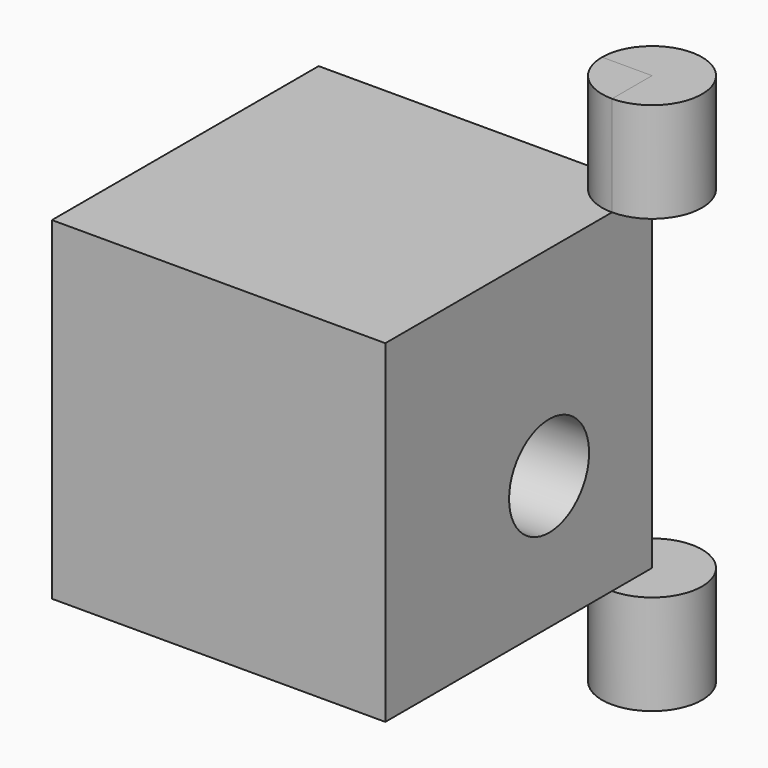
from build123d import *

# Parameters (mm, degrees)
F0_W     = 100
F0_H     = 100
F1_DEPTH = 100
F3_DEPTH = 30
F4_DEPTH = 30
F6_DEPTH = 30
F8_D     = 30


with BuildPart() as f1:
    # F0 (on Front) → F1 (new body)
    with BuildSketch(Plane.XZ):
        with Locations((-50, 50)):
            Rectangle(F0_W, F0_H)
    extrude(amount=F1_DEPTH)

    # F5 (on face) → F6 (join)
    with BuildSketch(Plane(origin=(0, 0, 0), x_dir=(1, 0, 0), z_dir=(0, 0, -1))):
        with BuildLine():
            ThreePointArc((-15, 0), (0, -15), (15, 0))
            ThreePointArc((15, 0), (10.6066017178, 10.6066017178), (0, 15))
            Line((0, 15), (0, 0))
            Line((0, 0), (-15, 0))
        make_face()
        with BuildLine():
            Line((0, 0), (0, 15))
            ThreePointArc((0, 15), (-10.6066017178, 10.6066017178), (-15, 0))
            Line((-15, 0), (0, 0))
        make_face()
    extrude(amount=F6_DEPTH)

    # F8 (through all)
    with Locations(Plane.YZ):
        with Locations((-38.6016704142, 39.9988368154)):
            Hole(F8_D / 2)


with BuildPart() as f3:
    # F2 (on face) → F3 (new body)
    with BuildSketch(Plane.XY.offset(100)):
        with BuildLine():
            ThreePointArc((0, -15), (10.6066017178, -10.6066017178), (15, 0))
            ThreePointArc((15, 0), (0, 15), (-15, 0))
            Line((-15, 0), (0, 0))
            Line((0, 0), (0, -15))
        make_face()
    extrude(amount=F3_DEPTH)


with BuildPart() as f4:
    # F2 (on face) → F4 (new body)
    with BuildSketch(Plane.XY.offset(100)):
        with BuildLine():
            Line((0, 0), (-15, 0))
            ThreePointArc((-15, 0), (-10.6066017178, -10.6066017178), (0, -15))
            Line((0, -15), (0, 0))
        make_face()
    extrude(amount=F4_DEPTH)


solid = Compound([f1.part, f3.part, f4.part])
